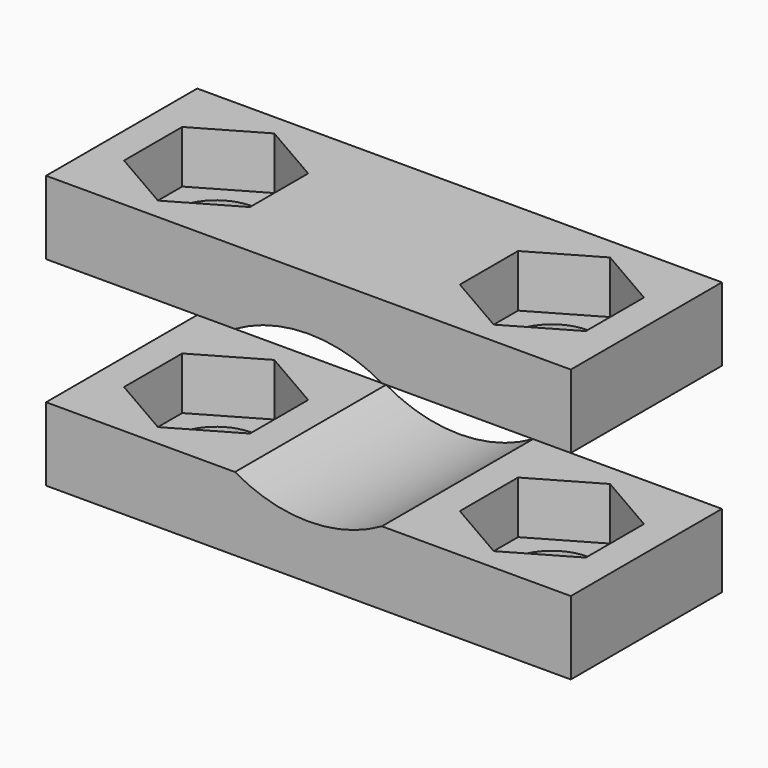
from build123d import *

# Parameters (mm, degrees)
F0_W     = 7
F0_H     = 0.5
F1_DEPTH = 4.5
F2_R     = 2.125
F3_DEPTH = 2.5
F4_DEPTH = 3.5
F5_R     = 2.125
F6_DEPTH = 3.5
F7_START = -1
F7_DEPTH = 2.5


with BuildPart() as f1:
    # F0 (on Front) → F1 (new body, symmetric)
    with BuildSketch(Plane.XZ):
        with BuildLine():
            Line((-3.5, 3.25), (-3.5, 0.25))
            Line((-3.5, 0.25), (3.5, 0.25))
            Line((3.5, 0.25), (3.5, 3.25))
            ThreePointArc((3.5, 3.25), (0, 2.3121778265), (-3.5, 3.25))
        make_face()
        Rectangle(F0_W, F0_H)
        Polygon((-3.5, -0.25), (-3.5, 0.25), (-3.5, 3.25), (-12.5, 3.25), (-12.5, -0.25), align=None)
        Polygon((3.5, 3.25), (3.5, 0.25), (3.5, -0.25), (12.5, -0.25), (12.5, 3.25), align=None)
    extrude(amount=F1_DEPTH, both=True)

    # F2 (on face) → F3 (cut)
    with BuildSketch(Plane.XY.offset(3.25)):
        Polygon((-11, -1.7320508076), (-8, -3.4641016151), (-5, -1.7320508076), (-5, 1.7320508076), (-8, 3.4641016151), (-11, 1.7320508076), align=None)
        with Locations((-8, 0)):
            Circle(F2_R, mode=Mode.SUBTRACT)
        Polygon((5, 1.7320508076), (5, -1.7320508076), (8, -3.4641016151), (11, -1.7320508076), (11, 1.7320508076), (8, 3.4641016151), align=None)
        with Locations((8, 0)):
            Circle(F2_R, mode=Mode.SUBTRACT)
    extrude(amount=-F3_DEPTH, mode=Mode.SUBTRACT)

    # F4 (cut, through all): faces of the model
    f4_faces = [f1.faces().sort_by_distance(p)[0] for p in [
        (-8, 0, 3.25),
        (8, 0, 3.25),
    ]]
    extrude(f4_faces, amount=-F4_DEPTH, mode=Mode.SUBTRACT)


with BuildPart() as f1b:
    # F0 (on Front) → F1, piece 2 (new body, symmetric)
    with BuildSketch(Plane.XZ):
        with Locations((0, 12.5)):
            Rectangle(F0_W, F0_H)
        Polygon((3.5, 12.75), (3.5, 12.25), (3.5, 9.25), (12.5, 9.25), (12.5, 12.75), align=None)
        with BuildLine():
            Line((3.5, 9.25), (3.5, 12.25))
            Line((3.5, 12.25), (-3.5, 12.25))
            Line((-3.5, 12.25), (-3.5, 9.25))
            ThreePointArc((-3.5, 9.25), (0, 10.1878221735), (3.5, 9.25))
        make_face()
        Polygon((-3.5, 9.25), (-3.5, 12.25), (-3.5, 12.75), (-12.5, 12.75), (-12.5, 9.25), align=None)
    extrude(amount=F1_DEPTH, both=True)

    # F5 (on face) → F6 (cut, through all)
    with BuildSketch(Plane(origin=(0, 0, 9.25), x_dir=(1, 0, 0), z_dir=(0, 0, -1))):
        with Locations((-8, 0)):
            Circle(F5_R)
        with Locations((8, 0)):
            Circle(F5_R)
    extrude(amount=-F6_DEPTH, mode=Mode.SUBTRACT)

    # F5 (on face) → F7 (cut)
    with BuildSketch(Plane(origin=(0, 0, 9.25), x_dir=(1, 0, 0), z_dir=(0, 0, -1)).offset(F7_START)):
        Polygon((-5, -1.7320508076), (-5, 1.7320508076), (-8, 3.4641016151), (-11, 1.7320508076), (-11, -1.7320508076), (-8, -3.4641016151), align=None)
        with Locations((-8, 0)):
            Circle(F5_R, mode=Mode.SUBTRACT)
        Polygon((11, -1.7320508076), (11, 1.7320508076), (8, 3.4641016151), (5, 1.7320508076), (5, -1.7320508076), (8, -3.4641016151), align=None)
        with Locations((8, 0)):
            Circle(F5_R, mode=Mode.SUBTRACT)
    extrude(amount=-F7_DEPTH, mode=Mode.SUBTRACT)


solid = Compound([f1.part, f1b.part])
